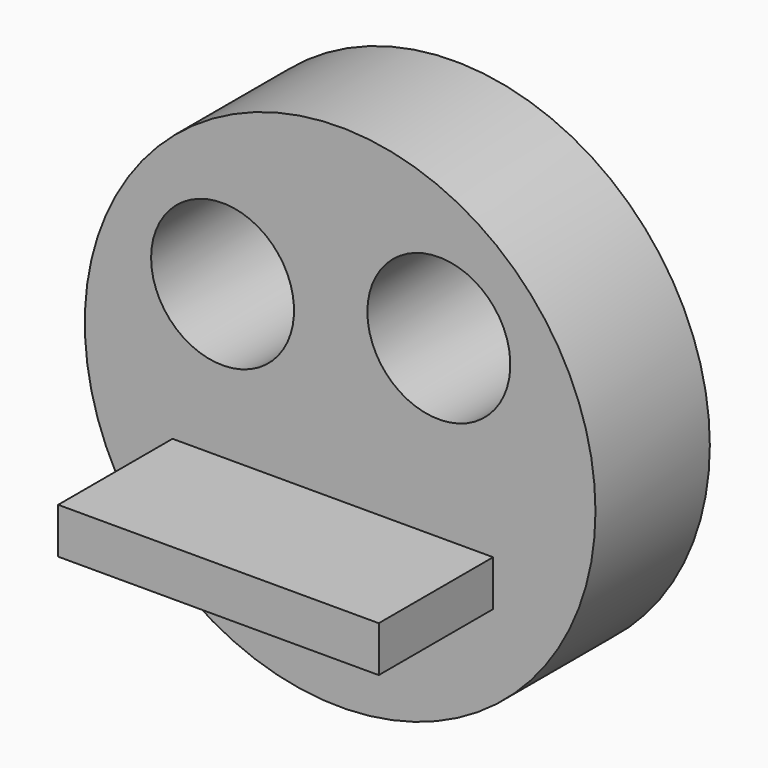
from build123d import *

# Parameters (mm, degrees)
F0_R     = 45.372538
F1_DEPTH = 25.4
F3_D     = 25.4
F5_D     = 25.4
F6_W     = 56.968233
F6_H     = 8.121184
F7_DEPTH = 25.4


with BuildPart() as f1:
    # F0 (on Front) → F1 (new body)
    with BuildSketch(Plane.XZ):
        with Locations((-15.429733, 7.751094)):
            Circle(F0_R)
    extrude(amount=F1_DEPTH)

    # F3 (through all)
    with Locations(Plane.XZ.offset(25.4)):
        with Locations((-36.322083, 21.740559)):
            Hole(F3_D / 2)

    # F5 (through all)
    with Locations(Plane.XZ.offset(25.4)):
        with Locations((2.110902, 25.776088)):
            Hole(F5_D / 2)

    # F6 (on face) → F7 (join)
    with BuildSketch(Plane.XZ.offset(25.4)):
        with Locations((-16.729575, -9.404827)):
            Rectangle(F6_W, F6_H)
    extrude(amount=F7_DEPTH)


solid = f1.part
